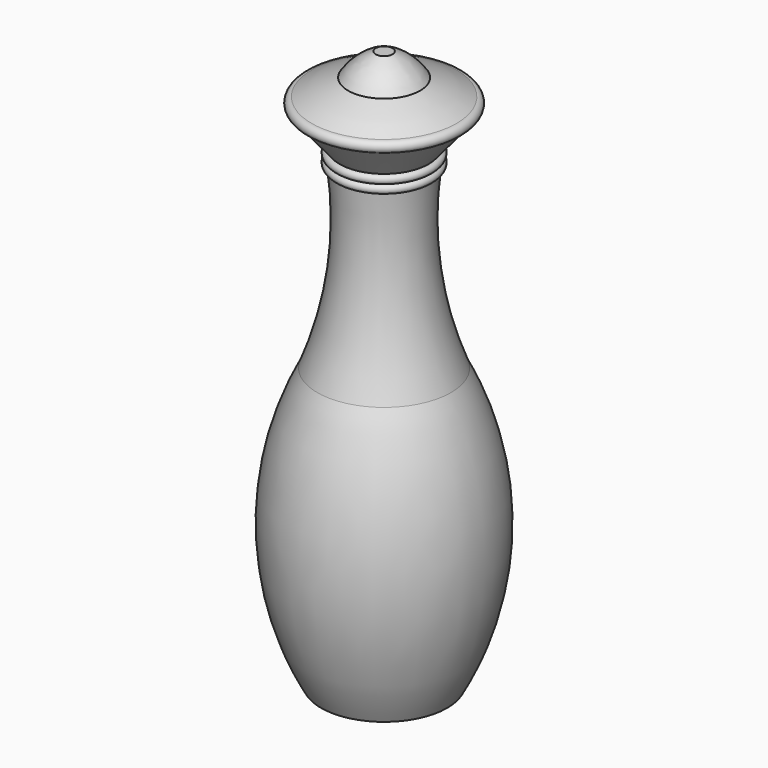
from build123d import *


with BuildPart() as f1:
    # F0 (on Front) → F1 (revolve)
    with BuildSketch(Plane.XZ):
        with BuildLine():
            Line((0, -11.594619), (0, -63.5))
            Line((0, -63.5), (7.201317, -63.5))
            ThreePointArc((7.201317, -63.5), (11.427098, -47.677964), (7.62, -31.75))
            ThreePointArc((7.62, -31.75), (5.067737, -21.833901), (5.08, -11.594619))
            Line((5.08, -11.594619), (0, -11.594619))
        make_face()
        with BuildLine():
            Line((0, -10.622084), (0, -11.594619))
            Line((0, -11.594619), (5.08, -11.594619))
            ThreePointArc((5.08, -11.594619), (5.566267, -11.108352), (5.08, -10.622084))
            Line((5.08, -10.622084), (0, -10.622084))
        make_face()
        with BuildLine():
            Line((0, -9.656884), (0, -10.622084))
            Line((0, -10.622084), (5.08, -10.622084))
            ThreePointArc((5.08, -10.622084), (5.5626, -10.139484), (5.08, -9.656884))
            Line((5.08, -9.656884), (0, -9.656884))
        make_face()
        Polygon((0, -5.818028), (0, -9.656884), (5.08, -9.656884), (8.255, -5.818028), align=None)
        with BuildLine():
            Line((0, -4.548028), (0, -5.818028))
            Line((0, -5.818028), (8.255, -5.818028))
            ThreePointArc((8.255, -5.818028), (8.89, -5.183028), (8.255, -4.548028))
            Line((8.255, -4.548028), (0, -4.548028))
        make_face()
        with BuildLine():
            Line((0, 0), (0, -4.548028))
            Line((0, -4.548028), (8.255, -4.548028))
            ThreePointArc((8.255, -4.548028), (6.219591, -3.490526), (4.095825, -2.624025))
            ThreePointArc((4.095825, -2.624025), (2.722393, -1.07471), (0.952734, 0))
            Line((0.952734, 0), (0, 0))
        make_face()
    revolve(axis=Axis((0, 0, -31.75), (0, 0, 1)))


solid = f1.part
